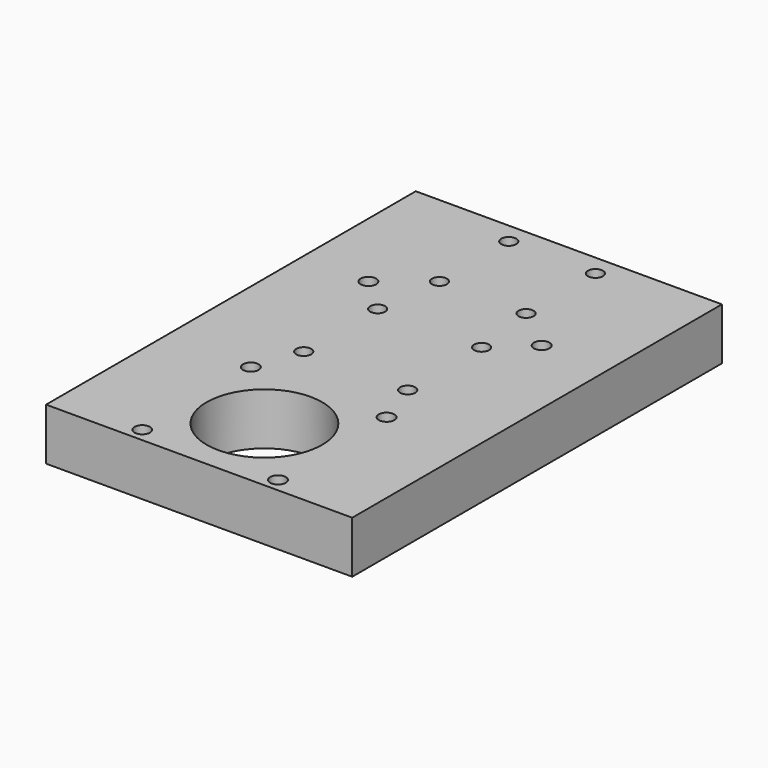
from build123d import *

# Parameters (mm, degrees)
PAD_DEPTH            = 18
SKETCH_R             = 2.6
POCKET_DEPTH         = 339.017224
POCKET_DEPTH_BACK    = 357.017224
SKETCH001_R          = 2.6
POCKET001_DEPTH      = 339.017224
POCKET001_DEPTH_BACK = 357.017224
SKETCH002_R          = 20
POCKET002_DEPTH      = 339.017224
POCKET002_DEPTH_BACK = 357.017224
SKETCH004_R          = 2.7
POCKET003_DEPTH      = 339.017224
POCKET003_DEPTH_BACK = 357.017224
SKETCH005_R          = 2.7
POCKET004_DEPTH      = 339.017224
POCKET004_DEPTH_BACK = 357.017224


with BuildPart() as part:
    # Sketch003 → Pad (new body)
    with BuildSketch(Plane.XY):
        Polygon((0, 92.25), (53, 92.25), (53, -67.75), (0, -67.75), (0, 0), align=None)
    pad = extrude(amount=PAD_DEPTH)

    # Sketch → Pocket (cut, two sides)
    with BuildSketch(Plane(origin=(18, 0, 0), x_dir=(1, 0, 0), z_dir=(0, 0, 1))) as pocket_sk:
        Circle(SKETCH_R)
        with Locations((0, 32)):
            Circle(SKETCH_R)
    pocket = extrude(amount=-POCKET_DEPTH, mode=Mode.SUBTRACT) + extrude(pocket_sk.sketch, amount=POCKET_DEPTH_BACK, mode=Mode.SUBTRACT)

    # Sketch001 → Pocket001 (cut, two sides)
    with BuildSketch(Plane(origin=(15, 55, 0), x_dir=(1, 0, 0), z_dir=(0, 0, 1))) as pocket001_sk:
        Circle(SKETCH001_R)
        with Locations((0, 30)):
            Circle(SKETCH001_R)
    pocket001 = extrude(amount=-POCKET001_DEPTH, mode=Mode.SUBTRACT) + extrude(pocket001_sk.sketch, amount=POCKET001_DEPTH_BACK, mode=Mode.SUBTRACT)

    # Sketch002 → Pocket002 (cut, two sides)
    with BuildSketch(Plane(origin=(0, -39.5, 0), x_dir=(1, 0, 0), z_dir=(0, 0, 1))) as pocket002_sk:
        Circle(SKETCH002_R)
    pocket002 = extrude(amount=-POCKET002_DEPTH, mode=Mode.SUBTRACT) + extrude(pocket002_sk.sketch, amount=POCKET002_DEPTH_BACK, mode=Mode.SUBTRACT)

    # Sketch004 → Pocket003 (cut, two sides)
    with BuildSketch(Plane(origin=(23.5, -39.5, 0), x_dir=(1, 0, 0), z_dir=(0, 0, 1))) as pocket003_sk:
        with Locations((0, 23.5)):
            Circle(SKETCH004_R)
        with Locations((0, -23.5)):
            Circle(SKETCH004_R)
    pocket003 = extrude(amount=-POCKET003_DEPTH, mode=Mode.SUBTRACT) + extrude(pocket003_sk.sketch, amount=POCKET003_DEPTH_BACK, mode=Mode.SUBTRACT)

    # Sketch005 → Pocket004 (cut, two sides)
    with BuildSketch(Plane(origin=(30, 43, 0), x_dir=(1, 0, 0), z_dir=(0, 0, 1))) as pocket004_sk:
        Circle(SKETCH005_R)
    pocket004 = extrude(amount=-POCKET004_DEPTH, mode=Mode.SUBTRACT) + extrude(pocket004_sk.sketch, amount=POCKET004_DEPTH_BACK, mode=Mode.SUBTRACT)

    # Mirrored: Pad, Pocket, Pocket001, Pocket002, Pocket003, Pocket004 across Sketch003 V_Axis
    add(pad.mirror(Plane(origin=(0, 0, 0), x_dir=(0, 0, 1), z_dir=(1, 0, 0))))
    add(pocket.mirror(Plane(origin=(0, 0, 0), x_dir=(0, 0, 1), z_dir=(1, 0, 0))), mode=Mode.SUBTRACT)
    add(pocket001.mirror(Plane(origin=(0, 0, 0), x_dir=(0, 0, 1), z_dir=(1, 0, 0))), mode=Mode.SUBTRACT)
    add(pocket002.mirror(Plane(origin=(0, 0, 0), x_dir=(0, 0, 1), z_dir=(1, 0, 0))), mode=Mode.SUBTRACT)
    add(pocket003.mirror(Plane(origin=(0, 0, 0), x_dir=(0, 0, 1), z_dir=(1, 0, 0))), mode=Mode.SUBTRACT)
    add(pocket004.mirror(Plane(origin=(0, 0, 0), x_dir=(0, 0, 1), z_dir=(1, 0, 0))), mode=Mode.SUBTRACT)


with BuildPart() as part_1:
    # Clone placement: moved
    add(part.part.moved(Location((53, 67.75, 0))))


solid = part_1.part
